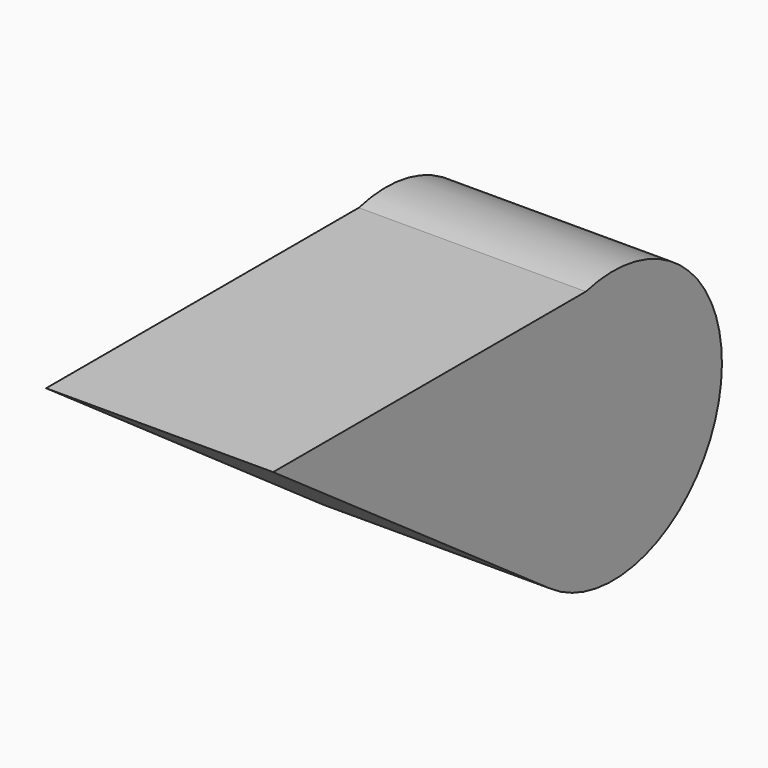
from build123d import *

# Parameters (mm, degrees)
F1_DEPTH = 25


with BuildPart() as f1:
    # F0 (on Right) → F1 (new body)
    with BuildSketch(Plane.YZ):
        with BuildLine():
            Line((-54.684364, 28.422803), (-16.533846, 1.619914))
            ThreePointArc((-16.533846, 1.619914), (6.845142, 11.199153), (-11.639576, 28.422803))
            Line((-11.639576, 28.422803), (-54.684364, 28.422803))
        make_face()
    extrude(amount=F1_DEPTH)


solid = f1.part
